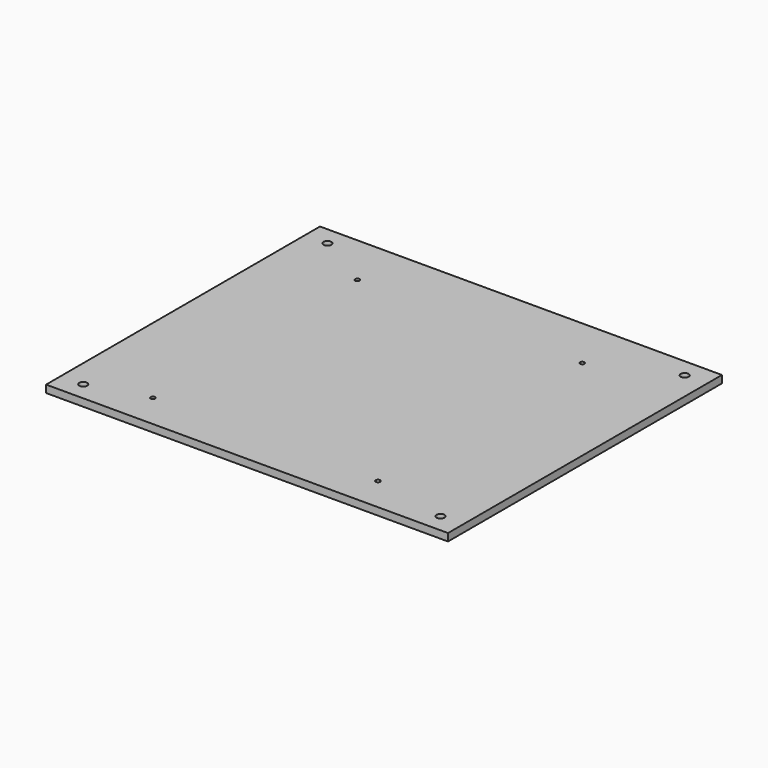
from build123d import *

# Parameters (mm, degrees)
F0_W           = 342.9
F0_H           = 292.1
F1_DEPTH       = 6.35
F2_R           = 3.3782
F3_DEPTH       = 6.351
F5_D           = 3.7973
F5_CSINK_D     = 7.7978
F5_CSINK_ANGLE = 82


with BuildPart() as f1:
    # F0 (on Top) → F1 (new body)
    with BuildSketch(Plane.XY):
        Rectangle(F0_W, F0_H)
    extrude(amount=F1_DEPTH)

    # F2 (on face) → F3 (cut, through all)
    with BuildSketch(Plane.XY.offset(6.35)):
        with Locations((-152.4, 130.175)):
            Circle(F2_R)
        with Locations((152.4, 130.175)):
            Circle(F2_R)
        with Locations((152.4, -130.175)):
            Circle(F2_R)
        with Locations((-152.4, -130.175)):
            Circle(F2_R)
    extrude(amount=-F3_DEPTH, mode=Mode.SUBTRACT)

    # F5 (through all)
    with Locations(Plane(origin=(0, 0, 0), x_dir=(1, 0, 0), z_dir=(0, 0, -1))):
        with Locations((-103.9114, 116.5606), (88.0872, 116.5606), (88.0872, -101.4476), (-103.9114, -101.4476)):
            CounterSinkHole(F5_D / 2, F5_CSINK_D / 2, counter_sink_angle=F5_CSINK_ANGLE)


solid = f1.part
